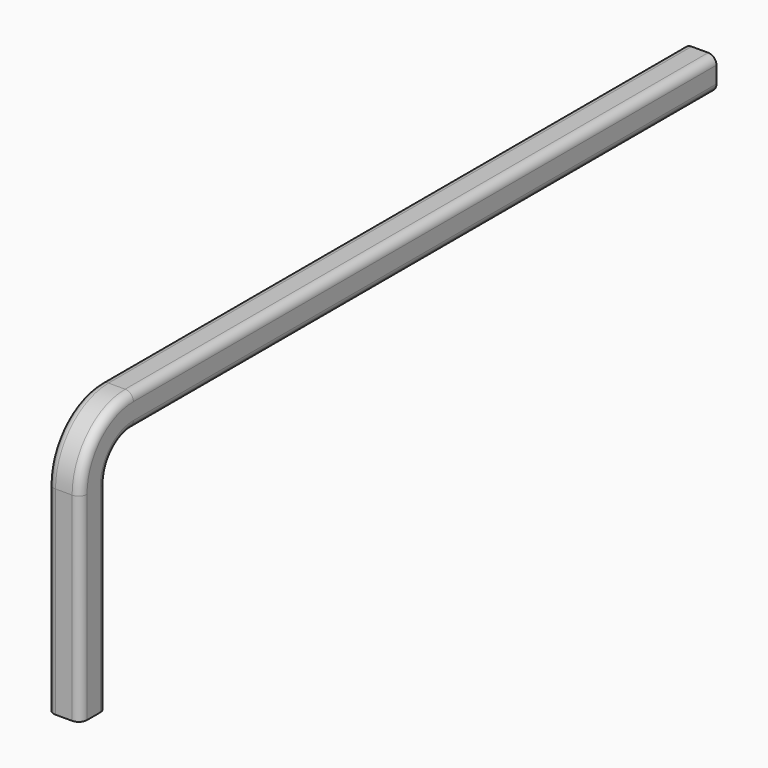
from build123d import *

# Parameters (mm, degrees)
F1_DEPTH = 12.7
F2_R     = 3.175


with BuildPart() as f1:
    # F0 (on Right) → F1 (new body)
    with BuildSketch(Plane.YZ):
        with BuildLine():
            Line((0, 76.2), (0, 0))
            Line((0, 0), (12.7, 0))
            Line((12.7, 0), (12.7, 76.2))
            ThreePointArc((12.7, 76.2), (16.419744, 85.180256), (25.4, 88.9))
            Line((25.4, 88.9), (304.8, 88.9))
            Line((304.8, 88.9), (304.8, 101.6))
            Line((304.8, 101.6), (25.4, 101.6))
            ThreePointArc((25.4, 101.6), (7.439488, 94.160512), (0, 76.2))
        make_face()
    extrude(amount=F1_DEPTH)

    # F2
    f2_edges = [f1.edges().sort_by_distance(p)[0] for p in [
        (12.7, 7.439488, 94.160512),
        (12.7, 165.1, 88.9),
        (0, 165.1, 101.6),
        (0, 165.1, 88.9),
    ]]
    fillet(f2_edges, radius=F2_R)


solid = f1.part
